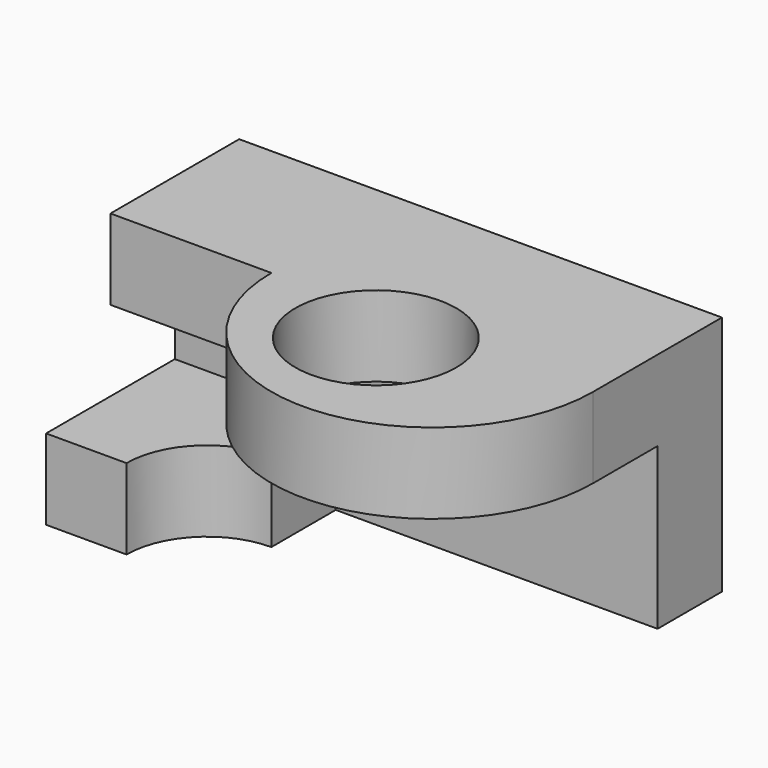
from build123d import *

# Parameters (mm, degrees)
F1_DEPTH  = 254
F0_W      = 508
F0_H      = 254
F2_DEPTH  = 762
F4_DEPTH  = 254
F5_W      = 1524
F5_H      = 254
F6_DEPTH  = 254
F8_DEPTH  = 254
F9_R      = 254
F10_DEPTH = 254


with BuildPart() as f1:
    # F0 (on Front) → F1 (new body)
    with BuildSketch(Plane.XZ):
        Polygon((0, 0), (0, -508), (508, -508), (508, -762), (1524, -762), (1524, 0), align=None)
    extrude(amount=F1_DEPTH)

    # F0 (on Front) → F2 (join)
    with BuildSketch(Plane.XZ):
        with Locations((254, -635)):
            Rectangle(F0_W, F0_H)
    extrude(amount=F2_DEPTH)

    # F3 (on face) → F4 (cut)
    with BuildSketch(Plane(origin=(0, 0, -762), x_dir=(1, 0, 0), z_dir=(0, 0, -1))):
        with BuildLine():
            ThreePointArc((254, 762), (328.394878, 582.394878), (508, 508))
            Line((508, 508), (508, 762))
            Line((508, 762), (254, 762))
        make_face()
    extrude(amount=-F4_DEPTH, mode=Mode.SUBTRACT)

    # F5 (on face) → F6 (join)
    with BuildSketch(Plane.XZ.offset(254)):
        with Locations((762, -127)):
            Rectangle(F5_W, F5_H)
    extrude(amount=F6_DEPTH)

    # F7 (on face) → F8 (join)
    with BuildSketch(Plane(origin=(0, 0, -254), x_dir=(1, 0, 0), z_dir=(0, 0, -1))):
        with BuildLine():
            Line((508, 508), (1524, 508))
            ThreePointArc((1524, 508), (1016, 1016), (508, 508))
        make_face()
    extrude(amount=-F8_DEPTH)

    # F9 (on face) → F10 (cut)
    with BuildSketch(Plane(origin=(0, 0, -254), x_dir=(1, 0, 0), z_dir=(0, 0, -1))):
        with Locations((925.507426, 617.637932)):
            Circle(F9_R)
    extrude(amount=-F10_DEPTH, mode=Mode.SUBTRACT)


solid = f1.part
